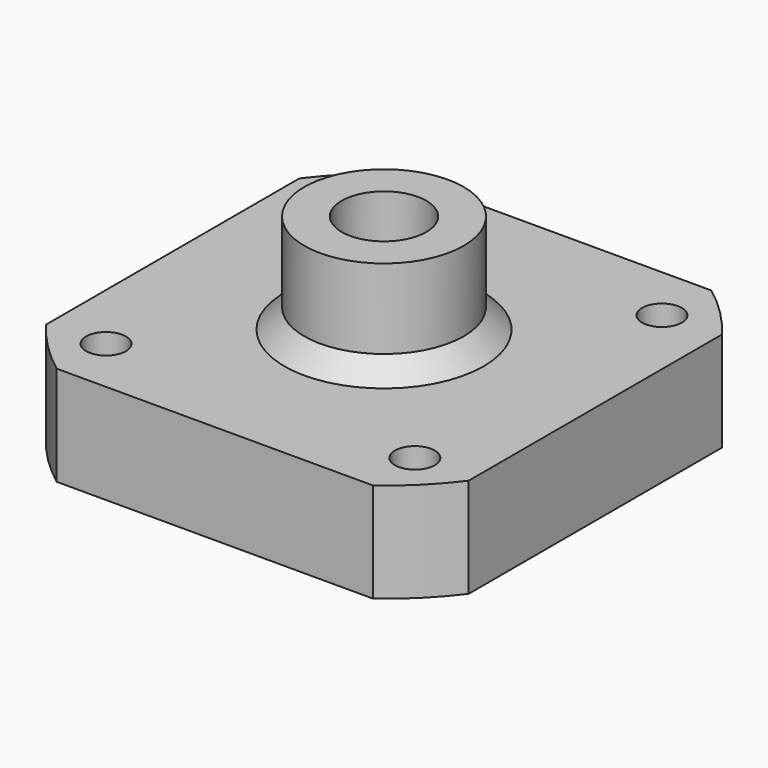
from build123d import *

# Parameters (mm, degrees)
PAD_DEPTH       = 10
SKETCH_R        = 13
SKETCH_R_2      = 4.25
PAD001_DEPTH    = 20
PAD001_FACE22_R = 4.25
POCKET_DEPTH    = 6
SKETCH001_R     = 2
POCKET001_DEPTH = 10.0010008506
SKETCH002_R     = 16.036471
SKETCH002_R_2   = 8
POCKET002_DEPTH = 10
CHAMFER_SIZE    = 2


with BuildPart() as part:
    # Binder Face3 → Pad (new)
    with BuildSketch(Plane(origin=(80.0089996426, 399.2090804087, 169.428643648), x_dir=(0, 1, -2.4e-09), z_dir=(-1.8e-08, 2.4e-09, 1))):
        with BuildLine():
            Line((-21.2090002282, 15.8879926146), (-21.2089997718, -15.8879932238))
            ThreePointArc((-21.2089997718, -15.8879932238), (-18.7383294323, -18.7383299706), (-15.8879926146, -21.2090002282))
            Line((-15.8879926146, -21.2090002282), (15.8879932238, -21.2089997718))
            ThreePointArc((15.8879932238, -21.2089997718), (18.7383299706, -18.7383294323), (21.2090002282, -15.8879926146))
            Line((21.2090002282, -15.8879926146), (21.2089997718, 15.8879932238))
            ThreePointArc((21.2089997718, 15.8879932238), (18.7383294323, 18.7383299706), (15.8879926146, 21.2090002282))
            Line((15.8879926146, 21.2090002282), (-15.8879932238, 21.2089997718))
            ThreePointArc((-15.8879932238, 21.2089997718), (-18.7383299706, 18.7383294323), (-21.2090002282, 15.8879926146))
        make_face()
        with BuildLine():
            ThreePointArc((-15.4999997558, -17.0000002226), (-16.9999997774, -15.5000002442), (-15.4999997989, -14.0000002226))
            ThreePointArc((-15.4999997989, -14.0000002226), (-13.9999997774, -15.5000002011), (-15.4999997558, -17.0000002226))
        make_face(mode=Mode.SUBTRACT)
        with BuildLine():
            ThreePointArc((15.5000002442, -16.9999997774), (14.0000002226, -15.4999997989), (15.5000002011, -13.9999997774))
            ThreePointArc((15.5000002011, -13.9999997774), (17.0000002226, -15.4999997558), (15.5000002442, -16.9999997774))
        make_face(mode=Mode.SUBTRACT)
        with BuildLine():
            ThreePointArc((15.4999997989, 14.0000002226), (13.9999997774, 15.5000002011), (15.4999997558, 17.0000002226))
            ThreePointArc((15.4999997558, 17.0000002226), (16.9999997774, 15.5000002442), (15.4999997989, 14.0000002226))
        make_face(mode=Mode.SUBTRACT)
        with BuildLine():
            ThreePointArc((-15.5000002011, 13.9999997774), (-17.0000002226, 15.4999997558), (-15.5000002442, 16.9999997774))
            ThreePointArc((-15.5000002442, 16.9999997774), (-14.0000002226, 15.4999997989), (-15.5000002011, 13.9999997774))
        make_face(mode=Mode.SUBTRACT)
        with BuildLine():
            ThreePointArc((1.58e-07, -11), (-11, -1.58e-07), (-1.58e-07, 11))
            ThreePointArc((-1.58e-07, 11), (11, 1.58e-07), (1.58e-07, -11))
        make_face(mode=Mode.SUBTRACT)
    extrude(amount=-PAD_DEPTH)

    # Sketch (on Face20 of Pad) → Pad001 (join)
    with BuildSketch(Plane(origin=(-2.8643e-06, 3.803e-07, 159.4286431629), x_dir=(1, 0, 1.8e-08), z_dir=(1.8e-08, -2.4e-09, -1))):
        with Locations((80.0090026866, -399.2090800045)):
            Circle(SKETCH_R)
        with Locations((80.0090026866, -399.2090800045)):
            Circle(SKETCH_R_2, mode=Mode.SUBTRACT)
    extrude(amount=-PAD001_DEPTH)

    # Pad001 Face22 → Pocket (cut)
    with BuildSketch(Plane(origin=(80.0089998223, 399.2090803848, 159.428643648), x_dir=(0, -1, 2.4e-09), z_dir=(1.8e-08, -2.4e-09, -1))):
        with BuildLine():
            ThreePointArc((1.58e-07, 11), (-11, 1.58e-07), (-1.58e-07, -11))
            ThreePointArc((-1.58e-07, -11), (11, -1.58e-07), (1.58e-07, 11))
        make_face()
        Circle(PAD001_FACE22_R, mode=Mode.SUBTRACT)
    extrude(amount=-POCKET_DEPTH, mode=Mode.SUBTRACT)

    # Sketch001 (on Face3 of Pocket) → Pocket001 (cut, through all)
    with BuildSketch(Plane(origin=(-3.0439e-06, 4.042e-07, 169.4286431629), x_dir=(1, 0, 1.8e-08), z_dir=(-1.8e-08, 2.4e-09, 1))):
        with Locations((64.509002464, 414.7090797819)):
            Circle(SKETCH001_R)
        with Locations((95.509002464, 414.7090802271)):
            Circle(SKETCH001_R)
        with Locations((95.5090029092, 383.7090802271)):
            Circle(SKETCH001_R)
        with Locations((64.5090029092, 383.7090797819)):
            Circle(SKETCH001_R)
    extrude(amount=-POCKET001_DEPTH, mode=Mode.SUBTRACT)

    # Sketch002 (on Face16 of Pocket001) → Pocket002 (cut)
    with BuildSketch(Plane(origin=(-3.2236e-06, 4.28e-07, 179.4286431629), x_dir=(1, 0, 1.8e-08), z_dir=(-1.8e-08, 2.4e-09, 1))):
        with Locations((80.0090026866, 399.2090800045)):
            Circle(SKETCH002_R)
        with Locations((80.0090026866, 399.2090800045)):
            Circle(SKETCH002_R_2, mode=Mode.SUBTRACT)
    extrude(amount=-POCKET002_DEPTH, mode=Mode.SUBTRACT)

    # Chamfer
    chamfer_edges = [part.edges().sort_by_distance(p)[0] for p in [
        (72.009, 399.20908, 169.428644),
    ]]
    chamfer(chamfer_edges, length=CHAMFER_SIZE)


solid = part.part
